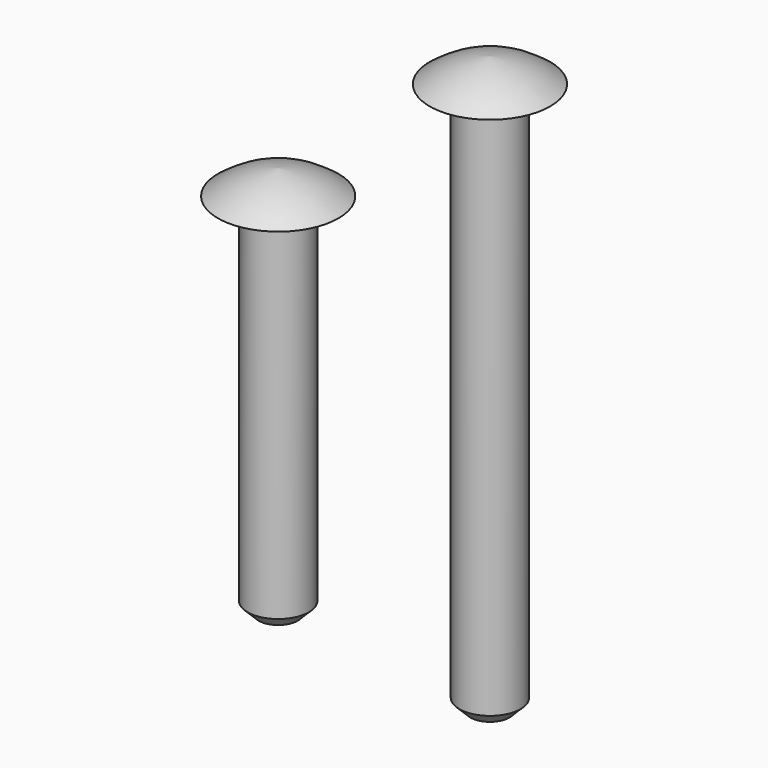
from build123d import *


with BuildPart() as f1:
    # F0 (on Front) → F1 (revolve)
    with BuildSketch(Plane.XZ):
        Polygon((0, 21.937961), (0, -8.062039), (1.596379, -8.062039), (2.5, -7.158419), (2.5, 21.937961), align=None)
        with BuildLine():
            Line((0, 23.937961), (0, 21.937961))
            Line((0, 21.937961), (2.5, 21.937961))
            Line((2.5, 21.937961), (4.91911, 21.937961))
            ThreePointArc((4.91911, 21.937961), (2.598625, 23.28001), (0, 23.937961))
        make_face()
    revolve(axis=Axis((0, 0, 6.937961), (0, 0, 1)))


with BuildPart() as f3:
    # F2 (on Front) → F3 (revolve)
    with BuildSketch(Plane.XZ):
        Polygon((17.285069, 35.600253), (17.285069, -9.399747), (18.881449, -9.399747), (19.785069, -8.496127), (19.785069, 35.600253), align=None)
        with BuildLine():
            Line((17.285069, 37.600253), (17.285069, 35.600253))
            Line((17.285069, 35.600253), (19.785069, 35.600253))
            Line((19.785069, 35.600253), (22.20418, 35.600253))
            ThreePointArc((22.20418, 35.600253), (19.883694, 36.942302), (17.285069, 37.600253))
        make_face()
    revolve(axis=Axis((17.285069, 0, 13.100253), (0, 0, 1)))


solid = Compound([f1.part, f3.part])
